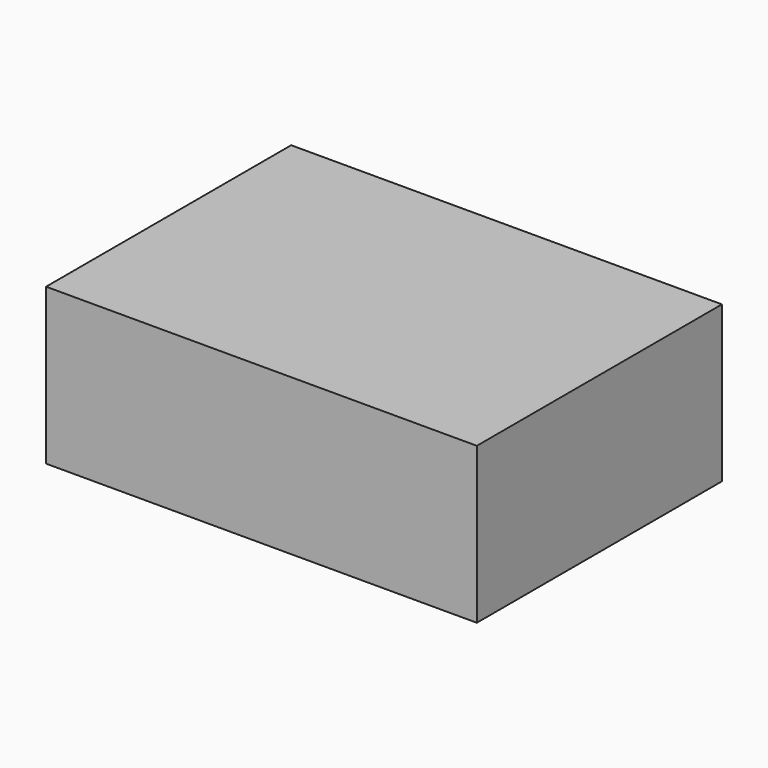
from build123d import *

# Parameters (mm, degrees)
F0_W     = 33.9902639389
F0_H     = 49.9363131821
F0_W_2   = 36.2283065915
F1_DEPTH = 25.4


with BuildPart() as f1:
    # F0 (on Top) → F1 (new body)
    with BuildSketch(Plane.XY):
        with Locations((-16.9951319695, 24.9681565911)):
            Rectangle(F0_W, F0_H)
        with Locations((18.1141532958, 24.9681565911)):
            Rectangle(F0_W_2, F0_H)
    extrude(amount=F1_DEPTH)


solid = f1.part
